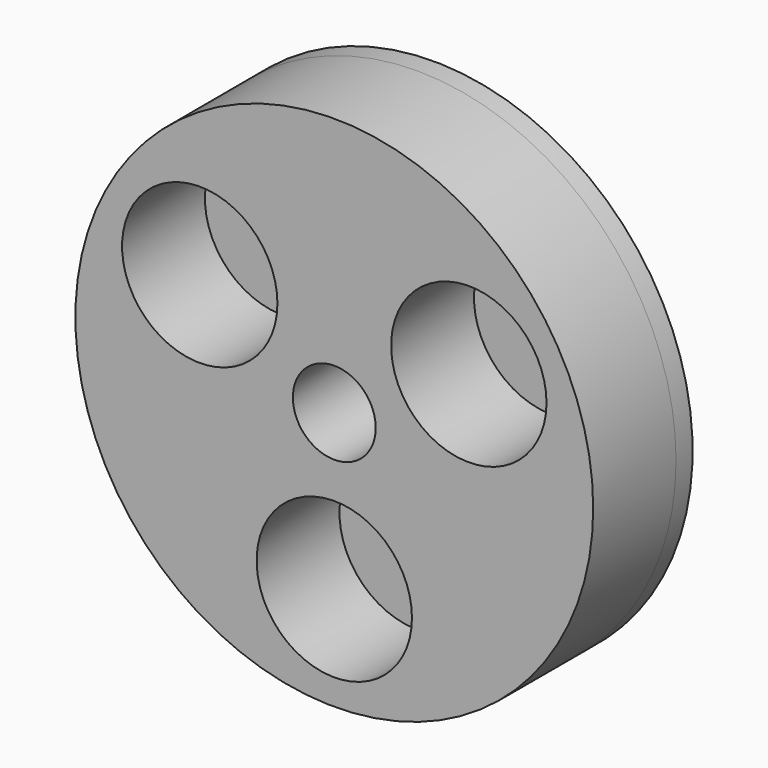
from build123d import *

# Parameters (mm, degrees)
F0_R     = 25
F0_R_2   = 7.5
F0_R_3   = 4
F1_DEPTH = 10
F2_R     = 25
F3_DEPTH = 2
F4_DEPTH = 25


with BuildPart() as f1:
    # F0 (on Front) → F1 (new body)
    with BuildSketch(Plane.XZ):
        Circle(F0_R)
        with Locations((0, -15)):
            Circle(F0_R_2, mode=Mode.SUBTRACT)
        with Locations((-12.990381, 7.5)):
            Circle(F0_R_2, mode=Mode.SUBTRACT)
        Circle(F0_R_3, mode=Mode.SUBTRACT)
        with Locations((12.990381, 7.5)):
            Circle(F0_R_2, mode=Mode.SUBTRACT)
    extrude(amount=-F1_DEPTH)

    # F2 (on face) → F3 (join)
    with BuildSketch(Plane(origin=(0, 10, 0), x_dir=(-1, 0, 0), z_dir=(0, 1, 0))):
        Circle(F2_R)
    extrude(amount=F3_DEPTH)

    # F0 (on Front) → F4 (cut)
    with BuildSketch(Plane.XZ):
        Circle(F0_R_3)
    extrude(amount=-F4_DEPTH, mode=Mode.SUBTRACT)


solid = f1.part
